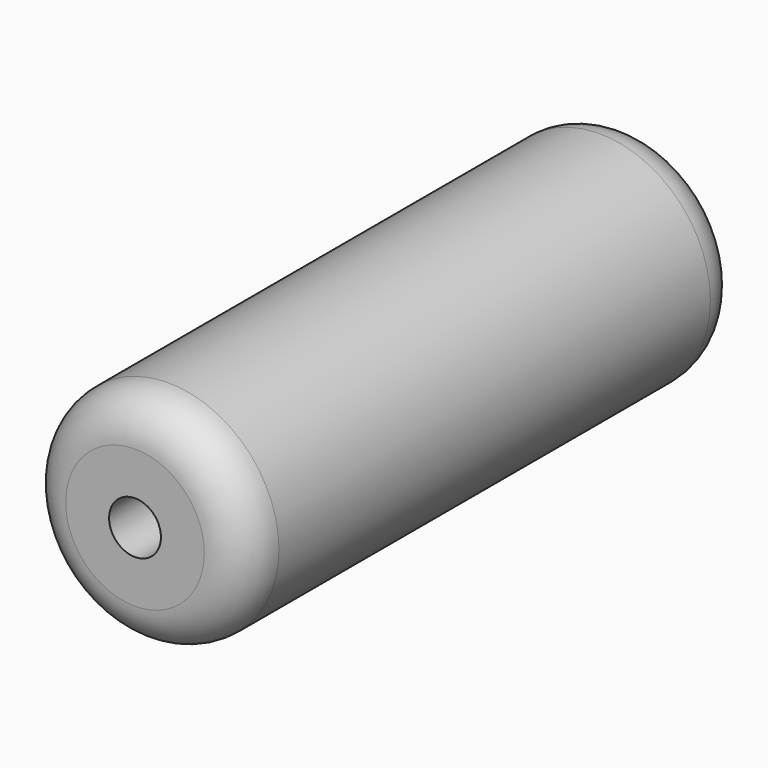
from build123d import *

# Parameters (mm, degrees)
F0_R     = 13.562221
F1_DEPTH = 76.2
F3_D     = 6.35
F4_R     = 5.08
F5_R     = 5.08


with BuildPart() as f1:
    # F0 (on Front) → F1 (new body)
    with BuildSketch(Plane.XZ):
        with Locations((-17.780002, 21.714916)):
            Circle(F0_R)
    extrude(amount=F1_DEPTH)

    # F3 (through all)
    with Locations(Plane.XZ.offset(76.2)):
        with Locations((-17.780002, 21.714916)):
            Hole(F3_D / 2)

    # F4
    f4_edges = [f1.edges().sort_by_distance(p)[0] for p in [
        (-31.342224, -76.2, 21.714916),
    ]]
    fillet(f4_edges, radius=F4_R)

    # F5
    f5_edges = [f1.edges().sort_by_distance(p)[0] for p in [
        (-31.342224, 0, 21.714916),
    ]]
    fillet(f5_edges, radius=F5_R)


solid = f1.part
